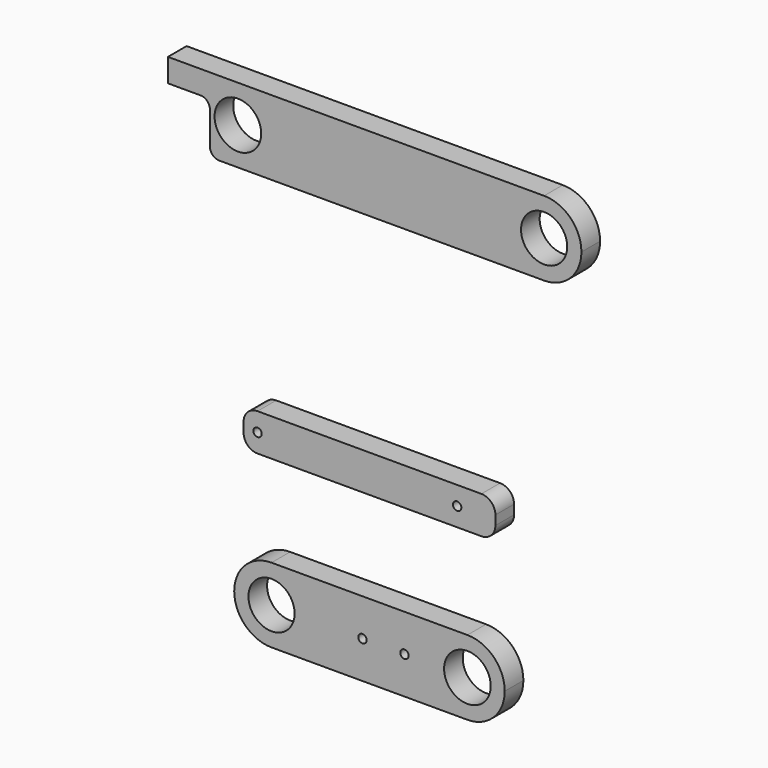
from build123d import *

# Parameters (mm, degrees)
F0_R     = 5
F0_R_2   = 4.95
F0_R_3   = 0.9
F1_DEPTH = 5


with BuildPart() as f1:
    # F0 (on Front) → F1 (new body)
    with BuildSketch(Plane.XZ):
        with BuildLine():
            Line((-32.210607, 126.922728), (37.444393, 126.922728))
            ThreePointArc((37.444393, 126.922728), (43.101247, 129.265874), (45.444393, 134.922728))
            ThreePointArc((45.444393, 134.922728), (43.101247, 140.579582), (37.444393, 142.922728))
            Line((37.444393, 142.922728), (-32.210607, 142.922728))
            Line((-32.210607, 142.922728), (-43.210607, 142.922728))
            Line((-43.210607, 142.922728), (-43.210607, 137.922728))
            Line((-43.210607, 137.922728), (-36.210607, 137.922728))
            ThreePointArc((-36.210607, 137.922728), (-34.796394, 137.336942), (-34.210607, 135.922728))
            Line((-34.210607, 135.922728), (-34.210607, 128.922728))
            ThreePointArc((-34.210607, 128.922728), (-33.624821, 127.508514), (-32.210607, 126.922728))
        make_face()
        with Locations((-28.210607, 134.922728)):
            Circle(F0_R, mode=Mode.SUBTRACT)
        with Locations((37.444393, 134.922728)):
            Circle(F0_R_2, mode=Mode.SUBTRACT)
        with BuildLine():
            Line((-24, 74.290269), (24, 74.290269))
            ThreePointArc((24, 74.290269), (26.12132, 75.168948), (27, 77.290269))
            Line((27, 77.290269), (27, 79.290269))
            ThreePointArc((27, 79.290269), (26.12132, 81.411589), (24, 82.290269))
            Line((24, 82.290269), (-24, 82.290269))
            ThreePointArc((-24, 82.290269), (-26.12132, 81.411589), (-27, 79.290269))
            Line((-27, 79.290269), (-27, 77.290269))
            ThreePointArc((-27, 77.290269), (-26.12132, 75.168948), (-24, 74.290269))
        make_face()
        with Locations((-24, 78.290269)):
            Circle(F0_R_3, mode=Mode.SUBTRACT)
        with Locations((18.8, 78.290269)):
            Circle(F0_R_3, mode=Mode.SUBTRACT)
        with BuildLine():
            Line((-21, 38.670482), (21, 38.670482))
            ThreePointArc((21, 38.670482), (26.656854, 41.013627), (29, 46.670482))
            ThreePointArc((29, 46.670482), (26.656854, 52.327336), (21, 54.670482))
            Line((21, 54.670482), (-21, 54.670482))
            ThreePointArc((-21, 54.670482), (-26.656854, 52.327336), (-29, 46.670482))
            ThreePointArc((-29, 46.670482), (-26.656854, 41.013627), (-21, 38.670482))
        make_face()
        with Locations((-21, 46.670482)):
            Circle(F0_R_2, mode=Mode.SUBTRACT)
        with Locations((-1.5, 46.670482)):
            Circle(F0_R_3, mode=Mode.SUBTRACT)
        with Locations((7.5, 46.670482)):
            Circle(F0_R_3, mode=Mode.SUBTRACT)
        with Locations((21, 46.670482)):
            Circle(F0_R, mode=Mode.SUBTRACT)
    extrude(amount=F1_DEPTH)


solid = f1.part
